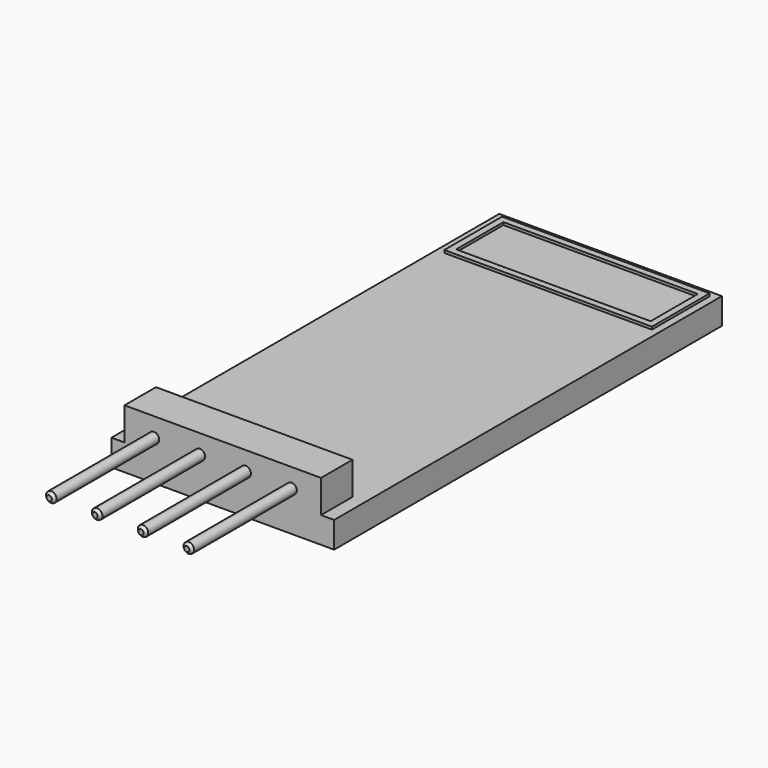
from build123d import *

# Parameters (mm, degrees)
F0_W     = 17
F0_H     = 37
F1_DEPTH = 1
F2_W     = 15
F2_H     = 3
F3_DEPTH = 2.5
F4_R     = 0.4
F5_DEPTH = 10
F6_SIZE  = 0.2
F7_W     = 15.8485004902
F7_H     = 5.5060135201
F7_W_2   = 14.8485004902
F7_H_2   = 4.5060135201
F8_DEPTH = 0.2


with BuildPart() as f1:
    # F0 (on Top) → F1 (new body, symmetric)
    with BuildSketch(Plane.XY):
        Rectangle(F0_W, F0_H)
    extrude(amount=F1_DEPTH, both=True)

    # F2 (on face) → F3 (join)
    with BuildSketch(Plane.XY.offset(1)):
        with Locations((0, -17)):
            Rectangle(F2_W, F2_H)
    extrude(amount=F3_DEPTH)

    # F4 (on face) → F5 (join)
    with BuildSketch(Plane.XZ.offset(18.5)):
        with Locations((-5.25, 2.0477680955)):
            Circle(F4_R)
        with Locations((-1.75, 2.0477680955)):
            Circle(F4_R)
        with Locations((1.75, 2.0477680955)):
            Circle(F4_R)
        with Locations((5.25, 2.0477680955)):
            Circle(F4_R)
    extrude(amount=F5_DEPTH)

    # F6
    f6_edges = [f1.edges().sort_by_distance(p)[0] for p in [
        (-5.65, -28.5, 2.047768),
        (-2.15, -28.5, 2.047768),
        (1.35, -28.5, 2.047768),
        (4.85, -28.5, 2.047768),
    ]]
    chamfer(f6_edges, length=F6_SIZE)

    # F7 (on face) → F8 (join)
    with BuildSketch(Plane.XY.offset(1)):
        with Locations((0.0227517448, 15.2666731738)):
            Rectangle(F7_W, F7_H)
        with Locations((0.0227517448, 15.2666731738)):
            Rectangle(F7_W_2, F7_H_2, mode=Mode.SUBTRACT)
    extrude(amount=F8_DEPTH)


solid = f1.part
